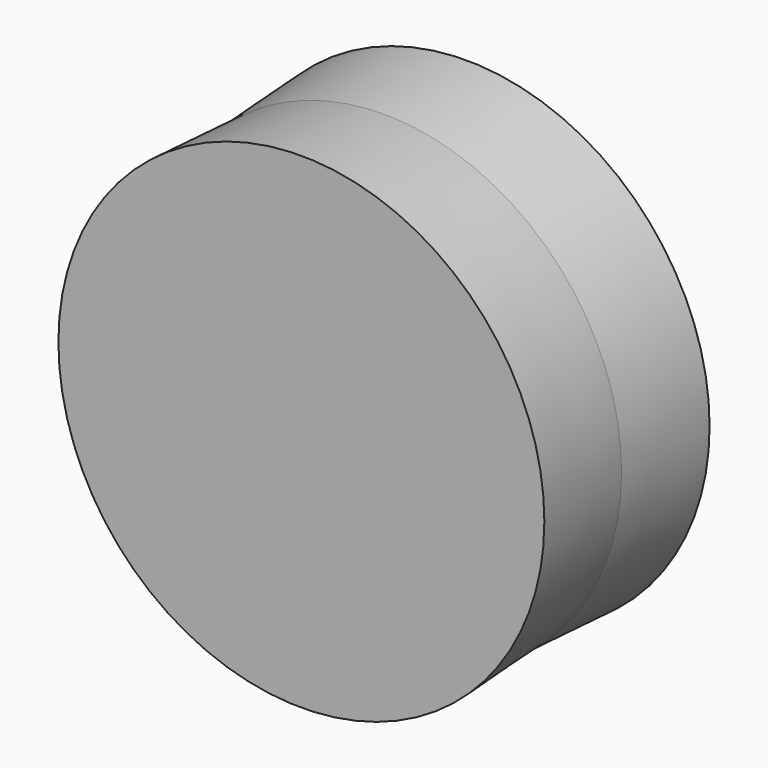
from build123d import *

# Parameters (mm, degrees)
F0_R     = 17.25
F2_DEPTH = 7.5
F2_TAPER = -3


with BuildPart() as f2:
    # F0 (on Front) → F2 (new body, symmetric)
    with BuildSketch(Plane.XZ):
        with Locations((0.189684506, -0.0143237949)):
            Circle(F0_R)
    extrude(amount=F2_DEPTH, both=True, taper=F2_TAPER)


solid = f2.part
